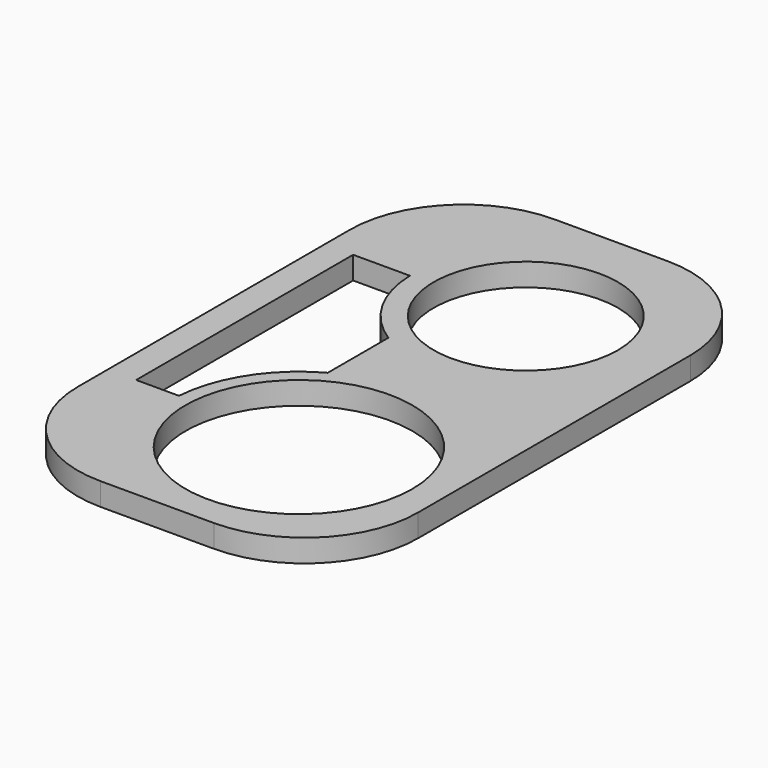
from build123d import *

# Parameters (mm, degrees)
F0_R     = 40
F0_R_2   = 32.5
F1_DEPTH = 8
F2_DEPTH = 5


with BuildPart() as f1:
    # F0 (on Top) → F1 (new body)
    with BuildSketch(Plane.XY):
        with BuildLine():
            Line((9.88816, 113.519735), (-30.11184, 113.519735))
            ThreePointArc((-30.11184, 113.519735), (-58.396111, 101.804006), (-70.11184, 73.519735))
            Line((-70.11184, 73.519735), (-70.11184, -46.480265))
            ThreePointArc((-70.11184, -46.480265), (-58.396111, -74.764536), (-30.11184, -86.480265))
            Line((-30.11184, -86.480265), (9.88816, -86.480265))
            ThreePointArc((9.88816, -86.480265), (38.172431, -74.764536), (49.88816, -46.480265))
            Line((49.88816, -46.480265), (49.88816, 73.519735))
            ThreePointArc((49.88816, 73.519735), (38.172431, 101.804006), (9.88816, 113.519735))
        make_face()
        with BuildLine():
            ThreePointArc((-68.11184, 73.519735), (-56.981898, 100.389793), (-30.11184, 111.519735))
            Line((-30.11184, 111.519735), (9.88816, 111.519735))
            ThreePointArc((9.88816, 111.519735), (36.758217, 100.389793), (47.88816, 73.519735))
            Line((47.88816, 73.519735), (47.88816, -46.480265))
            ThreePointArc((47.88816, -46.480265), (36.758217, -73.350323), (9.88816, -84.480265))
            Line((9.88816, -84.480265), (-30.11184, -84.480265))
            ThreePointArc((-30.11184, -84.480265), (-56.981898, -73.350323), (-68.11184, -46.480265))
            Line((-68.11184, -46.480265), (-68.11184, 73.519735))
        make_face(mode=Mode.SUBTRACT)
        with BuildLine():
            Line((9.88816, 111.519735), (-30.11184, 111.519735))
            ThreePointArc((-30.11184, 111.519735), (-56.981898, 100.389793), (-68.11184, 73.519735))
            Line((-68.11184, 73.519735), (-68.11184, -46.480265))
            ThreePointArc((-68.11184, -46.480265), (-56.981898, -73.350323), (-30.11184, -84.480265))
            Line((-30.11184, -84.480265), (9.88816, -84.480265))
            ThreePointArc((9.88816, -84.480265), (36.758217, -73.350323), (47.88816, -46.480265))
            Line((47.88816, -46.480265), (47.88816, 73.519735))
            ThreePointArc((47.88816, 73.519735), (36.758217, 100.389793), (9.88816, 111.519735))
        make_face()
        with BuildLine():
            Line((-64.11184, -46.480265), (-64.11184, 73.519735))
            ThreePointArc((-64.11184, 73.519735), (-54.153471, 97.561365), (-30.11184, 107.519735))
            Line((-30.11184, 107.519735), (9.88816, 107.519735))
            ThreePointArc((9.88816, 107.519735), (33.92979, 97.561365), (43.88816, 73.519735))
            Line((43.88816, 73.519735), (43.88816, -46.480265))
            ThreePointArc((43.88816, -46.480265), (33.92979, -70.521896), (9.88816, -80.480265))
            Line((9.88816, -80.480265), (-30.11184, -80.480265))
            ThreePointArc((-30.11184, -80.480265), (-54.153471, -70.521896), (-64.11184, -46.480265))
        make_face(mode=Mode.SUBTRACT)
        with BuildLine():
            ThreePointArc((-30.11184, 107.519735), (-54.153471, 97.561365), (-64.11184, 73.519735))
            Line((-64.11184, 73.519735), (-64.11184, -46.480265))
            ThreePointArc((-64.11184, -46.480265), (-54.153471, -70.521896), (-30.11184, -80.480265))
            Line((-30.11184, -80.480265), (9.88816, -80.480265))
            ThreePointArc((9.88816, -80.480265), (33.92979, -70.521896), (43.88816, -46.480265))
            Line((43.88816, -46.480265), (43.88816, 73.519735))
            ThreePointArc((43.88816, 73.519735), (33.92979, 97.561365), (9.88816, 107.519735))
            Line((9.88816, 107.519735), (-30.11184, 107.519735))
        make_face()
        with Locations((-0.11184, -36.480265)):
            Circle(F0_R, mode=Mode.SUBTRACT)
        with BuildLine():
            Line((-60.095887, 62.39015), (-40.095887, 62.39015))
            ThreePointArc((-40.095887, 62.39015), (-34.900309, 43.777332), (-21.585297, 29.772281))
            Line((-21.585297, 29.772281), (-21.585297, 3.065792))
            ThreePointArc((-21.585297, 3.065792), (-37.93282, -12.096388), (-44.995373, -33.24476))
            Line((-44.995373, -33.24476), (-60.095887, -33.24476))
            Line((-60.095887, -33.24476), (-60.095887, 62.39015))
        make_face(mode=Mode.SUBTRACT)
        with Locations((-0.11184, 63.519735)):
            Circle(F0_R_2, mode=Mode.SUBTRACT)
    extrude(amount=F1_DEPTH)

    # F0 (on Top) → F2 (cut)
    with BuildSketch(Plane.XY):
        with BuildLine():
            Line((9.88816, 111.519735), (-30.11184, 111.519735))
            ThreePointArc((-30.11184, 111.519735), (-56.981898, 100.389793), (-68.11184, 73.519735))
            Line((-68.11184, 73.519735), (-68.11184, -46.480265))
            ThreePointArc((-68.11184, -46.480265), (-56.981898, -73.350323), (-30.11184, -84.480265))
            Line((-30.11184, -84.480265), (9.88816, -84.480265))
            ThreePointArc((9.88816, -84.480265), (36.758217, -73.350323), (47.88816, -46.480265))
            Line((47.88816, -46.480265), (47.88816, 73.519735))
            ThreePointArc((47.88816, 73.519735), (36.758217, 100.389793), (9.88816, 111.519735))
        make_face()
        with BuildLine():
            Line((-64.11184, -46.480265), (-64.11184, 73.519735))
            ThreePointArc((-64.11184, 73.519735), (-54.153471, 97.561365), (-30.11184, 107.519735))
            Line((-30.11184, 107.519735), (9.88816, 107.519735))
            ThreePointArc((9.88816, 107.519735), (33.92979, 97.561365), (43.88816, 73.519735))
            Line((43.88816, 73.519735), (43.88816, -46.480265))
            ThreePointArc((43.88816, -46.480265), (33.92979, -70.521896), (9.88816, -80.480265))
            Line((9.88816, -80.480265), (-30.11184, -80.480265))
            ThreePointArc((-30.11184, -80.480265), (-54.153471, -70.521896), (-64.11184, -46.480265))
        make_face(mode=Mode.SUBTRACT)
    extrude(amount=F2_DEPTH, mode=Mode.SUBTRACT)


solid = f1.part
